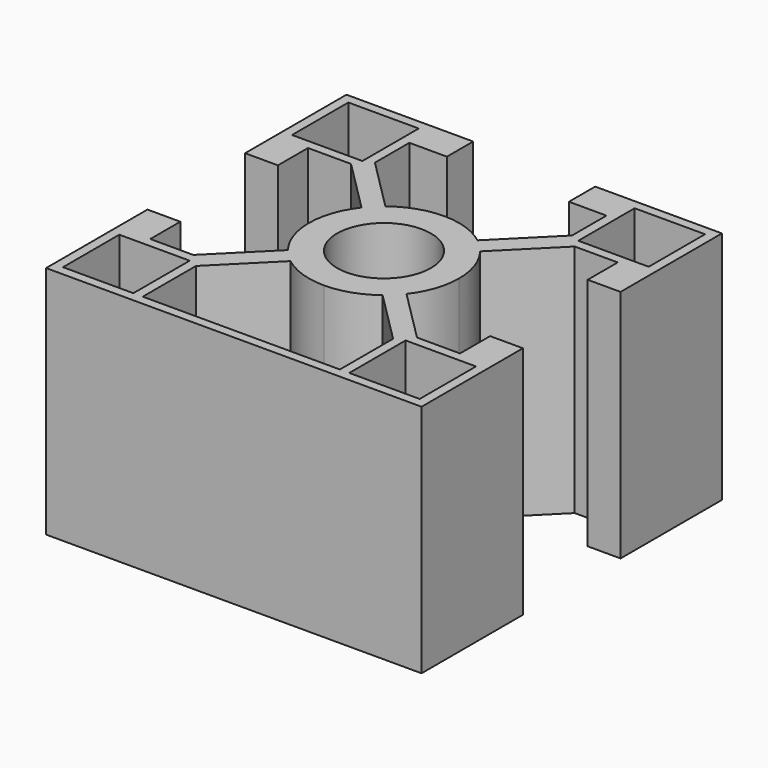
from build123d import *

# Parameters (mm, degrees)
F0_W     = 7.5
F0_H     = 7.5
F1_DEPTH = 25
F2_R     = 5
F3_DEPTH = 25.001


with BuildPart() as f1:
    # F0 (on Top) → F1 (new body)
    with BuildSketch(Plane.XY):
        with BuildLine():
            Line((20, 6.5), (20, 20))
            Line((20, 20), (6.5, 20))
            Line((6.5, 20), (6.5, 16.5))
            Line((6.5, 16.5), (10.5, 16.5))
            Line((10.5, 16.5), (10.5, 11.914214))
            Line((10.5, 11.914214), (4.905379, 6.319593))
            ThreePointArc((4.905379, 6.319593), (2.59261, 7.568248), (0, 8))
            ThreePointArc((0, 8), (-2.59261, 7.568248), (-4.905379, 6.319593))
            Line((-4.905379, 6.319593), (-10.5, 11.914214))
            Line((-10.5, 11.914214), (-10.5, 16.5))
            Line((-10.5, 16.5), (-6.5, 16.5))
            Line((-6.5, 16.5), (-6.5, 20))
            Line((-6.5, 20), (-20, 20))
            Line((-20, 20), (-20, 6.5))
            Line((-20, 6.5), (-16.5, 6.5))
            Line((-16.5, 6.5), (-16.5, 10.5))
            Line((-16.5, 10.5), (-11.914214, 10.5))
            Line((-11.914214, 10.5), (-6.319593, 4.905379))
            ThreePointArc((-6.319593, 4.905379), (-7.568248, 2.59261), (-8, 0))
            ThreePointArc((-8, 0), (-7.568248, -2.59261), (-6.319593, -4.905379))
            Line((-6.319593, -4.905379), (-11.914214, -10.5))
            Line((-11.914214, -10.5), (-16.5, -10.5))
            Line((-16.5, -10.5), (-16.5, -6.5))
            Line((-16.5, -6.5), (-20, -6.5))
            Line((-20, -6.5), (-20, -20))
            Line((-20, -20), (20, -20))
            Line((20, -20), (20, -6.5))
            Line((20, -6.5), (16.5, -6.5))
            Line((16.5, -6.5), (16.5, -10.5))
            Line((16.5, -10.5), (11.914214, -10.5))
            Line((11.914214, -10.5), (6.319593, -4.905379))
            ThreePointArc((6.319593, -4.905379), (7.568248, -2.59261), (8, 0))
            ThreePointArc((8, 0), (7.568248, 2.59261), (6.319593, 4.905379))
            Line((6.319593, 4.905379), (11.914214, 10.5))
            Line((11.914214, 10.5), (16.5, 10.5))
            Line((16.5, 10.5), (16.5, 6.5))
            Line((16.5, 6.5), (20, 6.5))
        make_face()
        with Locations((-15.25, -15.25)):
            Rectangle(F0_W, F0_H, mode=Mode.SUBTRACT)
        with BuildLine():
            Line((4.905379, -6.319593), (10.5, -11.914214))
            Line((10.5, -11.914214), (10.5, -19))
            Line((10.5, -19), (-10.5, -19))
            Line((-10.5, -19), (-10.5, -11.914214))
            Line((-10.5, -11.914214), (-4.905379, -6.319593))
            ThreePointArc((-4.905379, -6.319593), (-2.59261, -7.568248), (0, -8))
            ThreePointArc((0, -8), (2.59261, -7.568248), (4.905379, -6.319593))
        make_face(mode=Mode.SUBTRACT)
        with Locations((15.25, -15.25)):
            Rectangle(F0_W, F0_H, mode=Mode.SUBTRACT)
        with Locations((-15.25, 15.25)):
            Rectangle(F0_W, F0_H, mode=Mode.SUBTRACT)
        with Locations((15.25, 15.25)):
            Rectangle(F0_W, F0_H, mode=Mode.SUBTRACT)
    extrude(amount=F1_DEPTH)

    # F2 (on face) → F3 (cut, through all)
    with BuildSketch(Plane.XY.offset(25)):
        Circle(F2_R)
    extrude(amount=-F3_DEPTH, mode=Mode.SUBTRACT)


solid = f1.part
